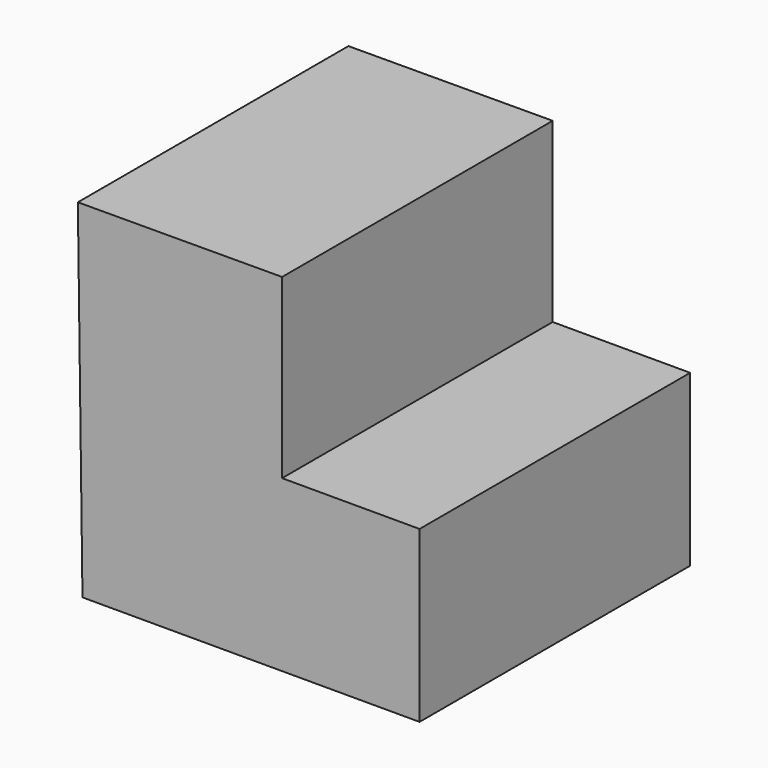
from build123d import *

# Parameters (mm, degrees)
F1_DEPTH      = 39.37
F1_DEPTH_BACK = 61.468


with BuildPart() as f1:
    # F0 (on Front) → F1 (new body, two sides)
    with BuildSketch(Plane.XZ) as f1_sk:
        Polygon((21.677587, 52.81448), (-39.216723, 52.617412), (-37.837241, -50.646722), (62.667929, -50.646722), (62.667929, 0), (21.677587, 0), align=None)
    extrude(amount=F1_DEPTH)
    extrude(f1_sk.sketch, amount=-F1_DEPTH_BACK)


solid = f1.part
